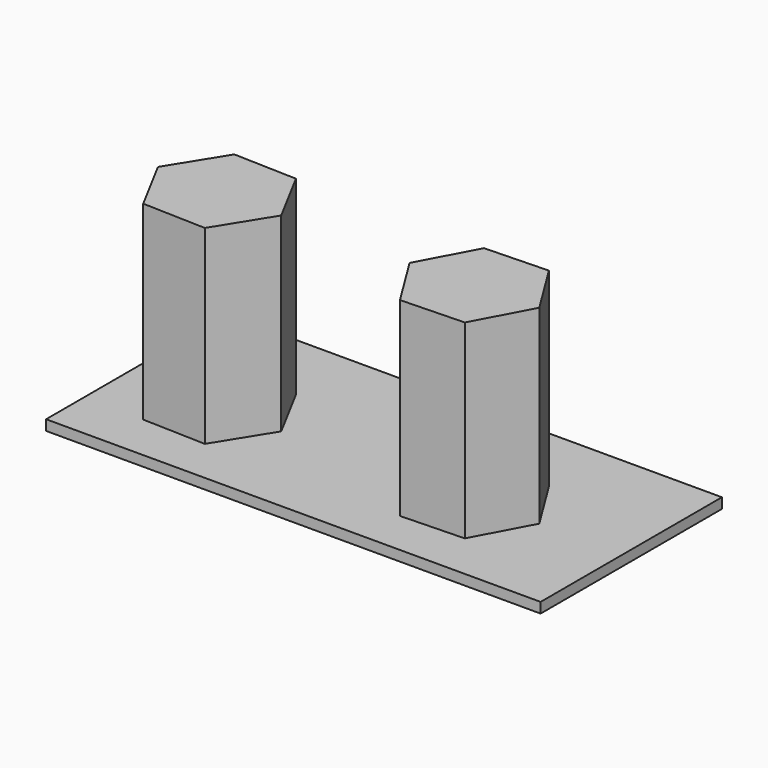
from build123d import *

# Parameters (mm, degrees)
F0_W     = 1219.2
F0_H     = 558.8
F1_DEPTH = 25.4
F3_DEPTH = 468.63544


with BuildPart() as f1:
    # F0 (on Top) → F1 (new body)
    with BuildSketch(Plane.XY):
        with Locations((609.6, 279.4)):
            Rectangle(F0_W, F0_H)
    extrude(amount=-F1_DEPTH)

    # F2 (on face) → F3 (join)
    with BuildSketch(Plane.XY):
        Polygon((385.11359, 243.180654), (311.477125, 380.67013), (155.589513, 385.643819), (73.338366, 253.12803), (146.974832, 115.638554), (302.862444, 110.664866), align=None)
        Polygon((775.282323, 380.67013), (701.645858, 243.180654), (783.897004, 110.664866), (939.784616, 115.638554), (1013.421082, 253.12803), (931.169935, 385.643819), align=None)
    extrude(amount=F3_DEPTH)


solid = f1.part
